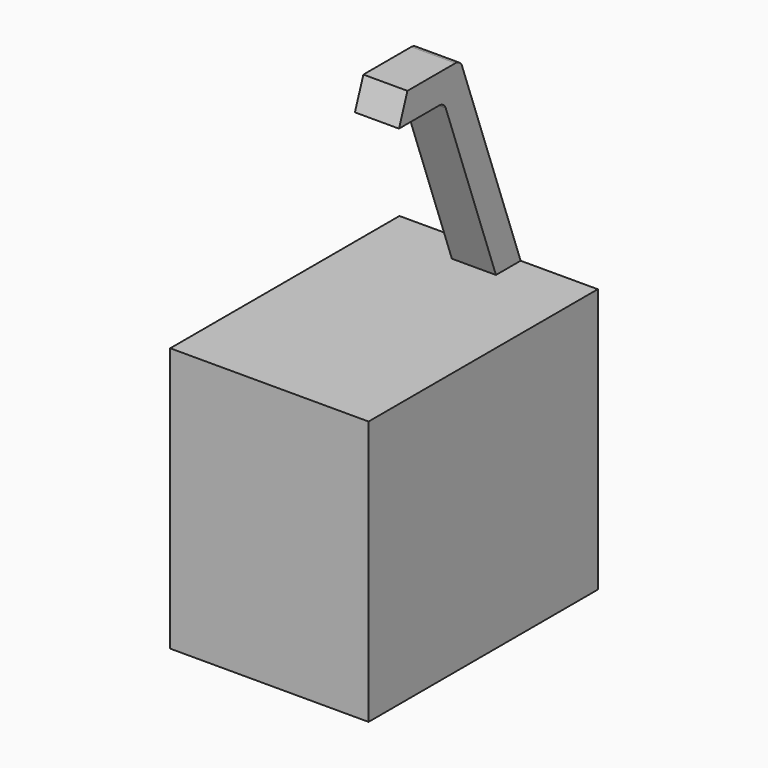
from build123d import *

# Parameters (mm, degrees)
F0_W     = 450
F0_H     = 650
F1_DEPTH = 600
F2_W     = 100
F2_H     = 70
F6_R     = 20


with BuildPart() as f1:
    # F0 (on Top) → F1 (new body)
    with BuildSketch(Plane.XY):
        with Locations((225, 325)):
            Rectangle(F0_W, F0_H)
    extrude(amount=F1_DEPTH)

    # F5: sweep along a path in F4
    with BuildLine(Plane.YZ.offset(225)) as f5_path:
        Line((650, 600), (478.9899283372, 1069.846310393))
        Line((478.9899283372, 1069.846310393), (328.9899283372, 1069.846310393))
    # F2 (on face) → F5 (sweep)
    with BuildSketch(Plane.XY.offset(600)):
        with Locations((225, 615)):
            Rectangle(F2_W, F2_H)
    sweep(path=f5_path.line, transition=Transition.RIGHT)

    # F6
    f6_edges = [f1.edges().sort_by_distance(p)[0] for p in [
        (225, 478.989928, 1069.84631),
        (225, 432.931338, 1004.067827),
    ]]
    fillet(f6_edges, radius=F6_R)


solid = f1.part
